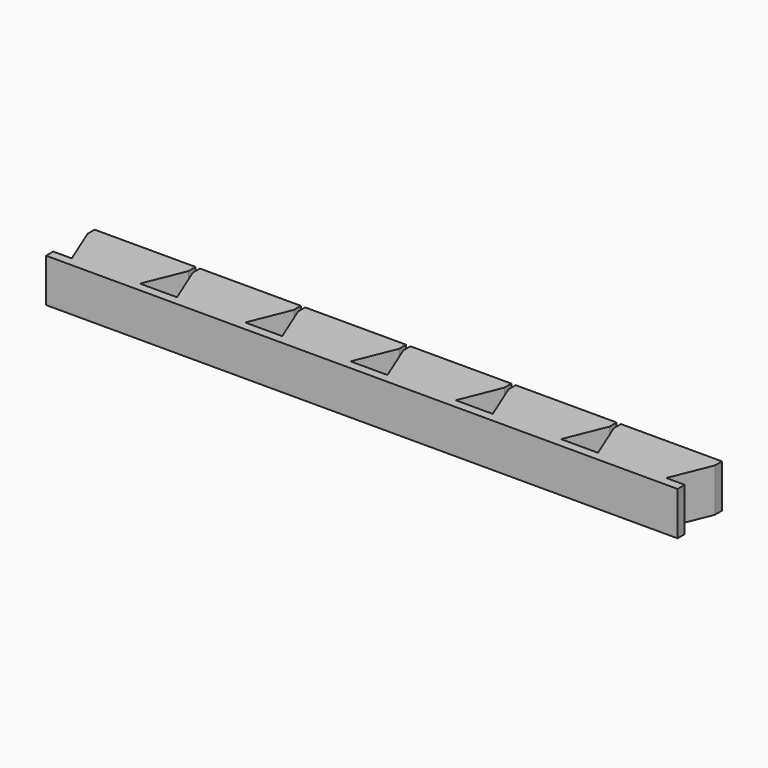
from build123d import *

# Parameters (mm, degrees)
F1_DEPTH = 25.4


with BuildPart() as f1:
    # F0 (on Top) → F1 (new body)
    with BuildSketch(Plane.XY):
        Polygon((29.492502, 33.923191), (0, 33.923191), (-29.492502, 33.923191), (-29.492502, 28.783908), (-19.942441, 5.227091), (-30.734, 5.227091), (-30.734, 0), (-29.04617, 0), (0, 0), (29.04617, 0), (30.734, 0), (30.734, 5.227091), (19.942441, 5.227091), (29.492502, 28.783908), align=None)
        Polygon((41.525559, 5.227091), (30.734, 5.227091), (30.734, 0), (32.42183, 0), (61.468, 0), (90.51417, 0), (92.202, 0), (92.202, 5.227091), (81.410441, 5.227091), (90.960502, 28.783908), (90.960502, 33.923191), (61.468, 33.923191), (31.975498, 33.923191), (31.975498, 28.783908), align=None)
        Polygon((92.202, 5.227091), (92.202, 0), (93.88983, 0), (122.936, 0), (151.98217, 0), (153.67, 0), (153.67, 5.227091), (142.878441, 5.227091), (152.428502, 28.783908), (152.428502, 33.923191), (122.936, 33.923191), (93.443498, 33.923191), (93.443498, 28.783908), (102.993559, 5.227091), align=None)
        Polygon((153.67, 5.227091), (153.67, 0), (155.35783, 0), (184.404, 0), (213.45017, 0), (215.138, 0), (215.138, 5.227091), (204.346441, 5.227091), (213.896502, 28.783908), (213.896502, 33.923191), (184.404, 33.923191), (154.911498, 33.923191), (154.911498, 28.783908), (164.461559, 5.227091), align=None)
        Polygon((215.138, 5.227091), (215.138, 0), (216.82583, 0), (245.872, 0), (274.91817, 0), (276.606, 0), (276.606, 5.227091), (265.814441, 5.227091), (275.364502, 28.783908), (275.364502, 33.923191), (245.872, 33.923191), (216.379498, 33.923191), (216.379498, 28.783908), (225.929559, 5.227091), align=None)
        Polygon((276.606, 5.227091), (276.606, 0), (278.29383, 0), (307.34, 0), (336.38617, 0), (338.074, 0), (338.074, 5.227091), (327.282441, 5.227091), (336.832502, 28.783908), (336.832502, 33.923191), (307.34, 33.923191), (277.847498, 33.923191), (277.847498, 28.783908), (287.397559, 5.227091), align=None)
    extrude(amount=F1_DEPTH)


solid = f1.part
